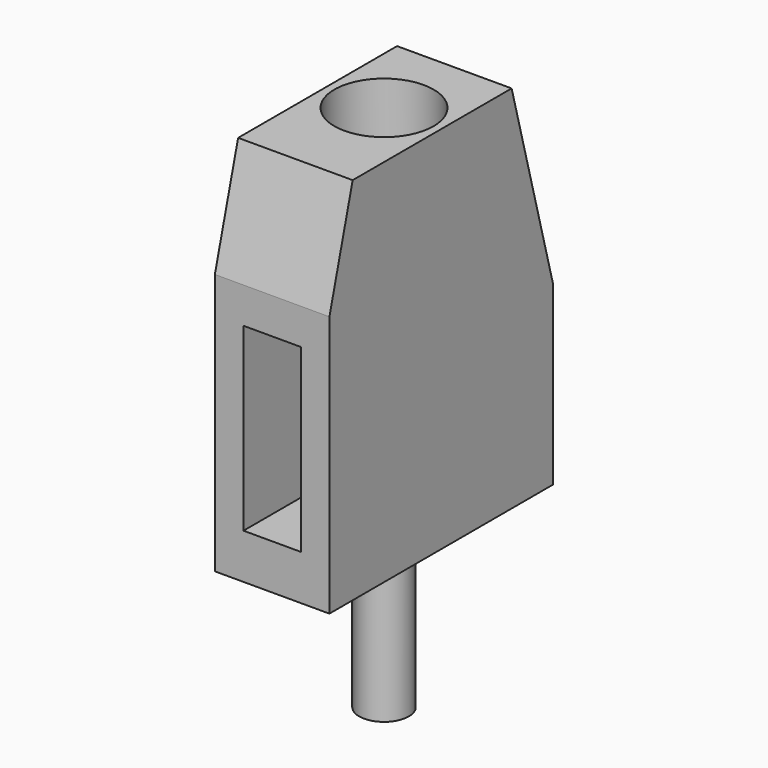
from build123d import *

# Parameters (mm, degrees)
CYLINDER007_R           = 0.55
CYLINDER007_DEPTH       = 3.5
CYLINDER006_R           = 1.1
CYLINDER006_DEPTH       = 3.5
CUBE015_W               = 4
CUBE015_H               = 6
CUBE015_DEPTH           = 9
CUBE015_PLACEMENT_ANGLE = 15
CUBE014_W               = 4
CUBE014_H               = 6
CUBE014_DEPTH           = 8
CUBE014_PLACEMENT_ANGLE = 15
CUBE013_W               = 1.27
CUBE013_H               = 3
CUBE013_DEPTH           = 4
CUBE012_W               = 2.54
CUBE012_H               = 6.2
CUBE012_DEPTH           = 8.2


with BuildPart() as cylinder007:
    # cylinder007 → cylinder007 (new body)
    with BuildSketch(Plane(origin=(1.27, 3.1, -3.5), x_dir=(1, 0, 0), z_dir=(0, 0, 1))):
        Circle(CYLINDER007_R)
    extrude(amount=CYLINDER007_DEPTH)


with BuildPart() as cylinder006:
    # cylinder006 → cylinder006 (new body)
    with BuildSketch(Plane(origin=(1.27, 3.1, 5), x_dir=(1, 0, 0), z_dir=(0, 0, 1))):
        Circle(CYLINDER006_R)
    extrude(amount=CYLINDER006_DEPTH)


with BuildPart() as cube015:
    # cube015 → cube015 (new body)
    with BuildSketch(Plane.XY):
        with Locations((2, 3)):
            Rectangle(CUBE015_W, CUBE015_H)
    extrude(amount=CUBE015_DEPTH)


with BuildPart() as cube015_1:
    # cube015 placement: moved
    add(cube015.part.moved(Location((-1, -7.244444, 1.941143))).rotate(Axis((-1, -7.244444, 1.941143), (-1, 0, 0)), CUBE015_PLACEMENT_ANGLE))


with BuildPart() as cube014:
    # cube014 → cube014 (new body)
    with BuildSketch(Plane.XY):
        with Locations((2, 3)):
            Rectangle(CUBE014_W, CUBE014_H)
    extrude(amount=CUBE014_DEPTH)


with BuildPart() as cube014_1:
    # cube014 placement: moved
    add(cube014.part.moved(Location((-1, 6.761481, 1.811733))).rotate(Axis((-1, 6.761481, 1.811733), (1, 0, 0)), CUBE014_PLACEMENT_ANGLE))


with BuildPart() as cube013:
    # cube013 → cube013 (new body)
    with BuildSketch(Plane(origin=(0.635, -1, 1), x_dir=(1, 0, 0), z_dir=(0, 0, 1))):
        with Locations((0.635, 1.5)):
            Rectangle(CUBE013_W, CUBE013_H)
    extrude(amount=CUBE013_DEPTH)


with BuildPart() as group003:
    # cube012 → cube012 (new body)
    with BuildSketch(Plane.XY):
        with Locations((1.27, 3.1)):
            Rectangle(CUBE012_W, CUBE012_H)
    extrude(amount=CUBE012_DEPTH)

    # difference012: cut cube013
    add(cube013.part, mode=Mode.SUBTRACT)

    # difference013: cut cube014
    add(cube014_1.part, mode=Mode.SUBTRACT)

    # difference014: cut cube015
    add(cube015_1.part, mode=Mode.SUBTRACT)

    # difference015: cut cylinder006
    add(cylinder006.part, mode=Mode.SUBTRACT)

    # Group003: union cylinder007
    add(cylinder007.part)


with BuildPart() as group003_1:
    # Group003 placement: moved
    add(group003.part.moved(Location((7.62, 0, 0))))


solid = group003_1.part
